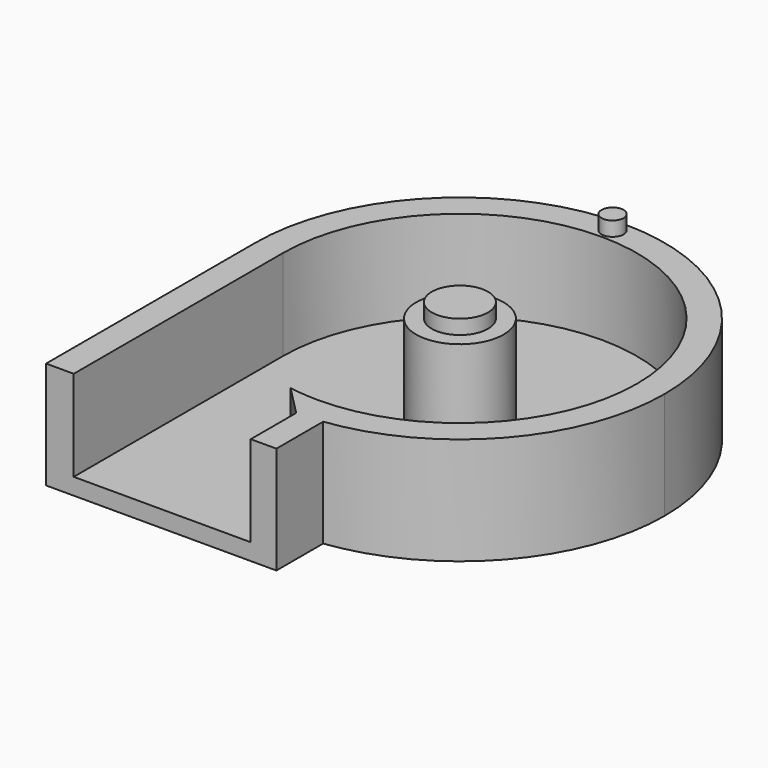
from build123d import *

# Parameters (mm, degrees)
F0_R     = 3.95
F0_R_2   = 2.54
F0_R_3   = 1
F1_DEPTH = 1.5
F2_DEPTH = 8.2
F3_DEPTH = 9.5


with BuildPart() as f1:
    # F0 (on Top) → F1 (new body)
    with BuildSketch(Plane.XY):
        with BuildLine():
            Line((2.319022, -18.354077), (0, -16))
            ThreePointArc((0, -16), (-1.348069, -15.943109), (-2.686551, -15.772839))
            Line((-2.686551, -15.772839), (0, -18.5))
            ThreePointArc((0, -18.5), (1.161804, -18.463483), (2.319022, -18.354077))
        make_face()
        with BuildLine():
            ThreePointArc((0, -18.5), (-9.231437, -16.032173), (-16, -9.287088))
            Line((-16, -9.287088), (-16, -23.633545))
            Line((-16, -23.633545), (0, -23.633545))
            Line((0, -23.633545), (0, -20.048685))
            Line((0, -20.048685), (0, -18.5))
        make_face()
        with BuildLine():
            ThreePointArc((-2.686551, -15.772839), (-12.226709, -10.320251), (-16, 0))
            Line((-16, 0), (-16, -9.287088))
            ThreePointArc((-16, -9.287088), (-9.231437, -16.032173), (0, -18.5))
            Line((0, -18.5), (-2.686551, -15.772839))
        make_face()
        with BuildLine():
            ThreePointArc((0, -16), (11.313708, -11.313708), (16, 0))
            ThreePointArc((16, 0), (0, 16), (-16, 0))
            ThreePointArc((-16, 0), (-12.226709, -10.320251), (-2.686551, -15.772839))
            ThreePointArc((-2.686551, -15.772839), (-1.348069, -15.943109), (0, -16))
        make_face()
        Circle(F0_R, mode=Mode.SUBTRACT)
        Circle(F0_R)
        Circle(F0_R_2, mode=Mode.SUBTRACT)
        with BuildLine():
            ThreePointArc((-16, 0), (0, 16), (16, 0))
            ThreePointArc((16, 0), (11.313708, -11.313708), (0, -16))
            Line((0, -16), (2.319022, -18.354077))
            ThreePointArc((2.319022, -18.354077), (13.877174, -12.234134), (18.5, 0))
            ThreePointArc((18.5, 0), (0, 18.5), (-18.5, 0))
            Line((-18.5, 0), (-16, 0))
        make_face()
        with Locations((0, 17.25)):
            Circle(F0_R_3, mode=Mode.SUBTRACT)
        with BuildLine():
            Line((-16, -9.287088), (-16, 0))
            Line((-16, 0), (-18.5, 0))
            ThreePointArc((-18.5, 0), (-17.86407, -4.808846), (-16, -9.287088))
        make_face()
        with BuildLine():
            Line((-16, -23.633545), (-16, -9.287088))
            ThreePointArc((-16, -9.287088), (-17.86407, -4.808846), (-18.5, 0))
            Line((-18.5, 0), (-18.5, -23.633545))
            Line((-18.5, -23.633545), (-16, -23.633545))
        make_face()
        with BuildLine():
            Line((2.319022, -23.633545), (2.319022, -18.354077))
            ThreePointArc((2.319022, -18.354077), (1.161804, -18.463483), (0, -18.5))
            Line((0, -18.5), (0, -20.048685))
            Line((0, -20.048685), (0, -23.633545))
            Line((0, -23.633545), (2.319022, -23.633545))
        make_face()
    extrude(amount=-F1_DEPTH)

    # F0 (on Top) → F2 (join)
    with BuildSketch(Plane.XY):
        with BuildLine():
            Line((-16, -23.633545), (-16, -9.287088))
            ThreePointArc((-16, -9.287088), (-17.86407, -4.808846), (-18.5, 0))
            Line((-18.5, 0), (-18.5, -23.633545))
            Line((-18.5, -23.633545), (-16, -23.633545))
        make_face()
        with BuildLine():
            Line((-16, -9.287088), (-16, 0))
            Line((-16, 0), (-18.5, 0))
            ThreePointArc((-18.5, 0), (-17.86407, -4.808846), (-16, -9.287088))
        make_face()
        with BuildLine():
            ThreePointArc((-16, 0), (0, 16), (16, 0))
            ThreePointArc((16, 0), (11.313708, -11.313708), (0, -16))
            Line((0, -16), (2.319022, -18.354077))
            ThreePointArc((2.319022, -18.354077), (13.877174, -12.234134), (18.5, 0))
            ThreePointArc((18.5, 0), (0, 18.5), (-18.5, 0))
            Line((-18.5, 0), (-16, 0))
        make_face()
        with Locations((0, 17.25)):
            Circle(F0_R_3, mode=Mode.SUBTRACT)
        with BuildLine():
            Line((2.319022, -23.633545), (2.319022, -18.354077))
            ThreePointArc((2.319022, -18.354077), (1.161804, -18.463483), (0, -18.5))
            Line((0, -18.5), (0, -20.048685))
            Line((0, -20.048685), (0, -23.633545))
            Line((0, -23.633545), (2.319022, -23.633545))
        make_face()
        with BuildLine():
            Line((2.319022, -18.354077), (0, -16))
            ThreePointArc((0, -16), (-1.348069, -15.943109), (-2.686551, -15.772839))
            Line((-2.686551, -15.772839), (0, -18.5))
            ThreePointArc((0, -18.5), (1.161804, -18.463483), (2.319022, -18.354077))
        make_face()
        Circle(F0_R)
        Circle(F0_R_2, mode=Mode.SUBTRACT)
    extrude(amount=F2_DEPTH)

    # F0 (on Top) → F3 (join)
    with BuildSketch(Plane.XY):
        with Locations((0, 17.25)):
            Circle(F0_R_3)
        Circle(F0_R_2)
    extrude(amount=F3_DEPTH)


solid = f1.part
